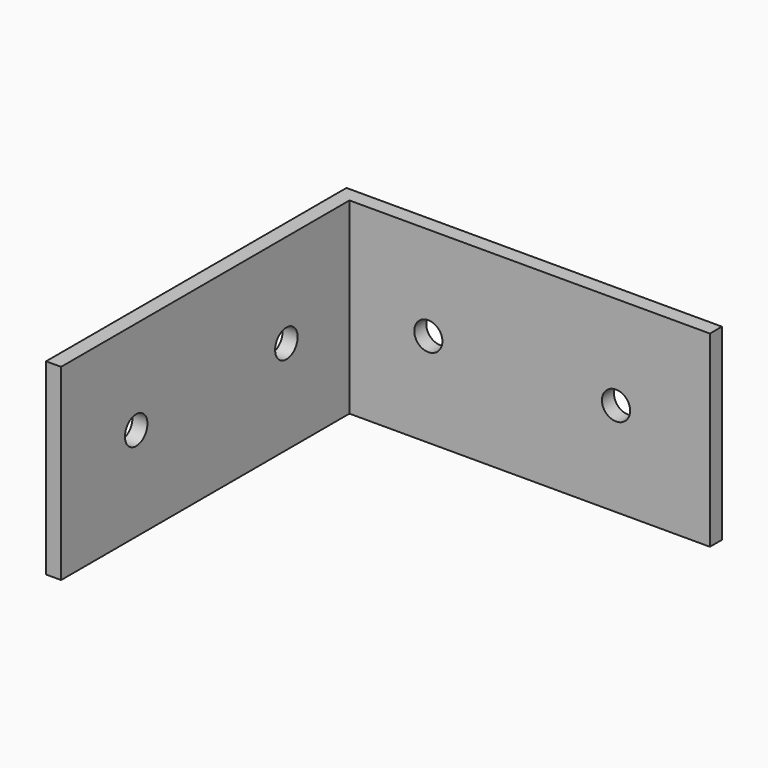
from build123d import *

# Parameters (mm, degrees)
F0_W     = 192
F0_H     = 8
F0_W_2   = 8
F0_H_2   = 192
F1_DEPTH = 100
F2_R     = 7.5
F3_DEPTH = 8
F4_R     = 7.5
F5_DEPTH = 8


with BuildPart() as f1:
    # F0 (on Top) → F1 (new body)
    with BuildSketch(Plane.XY):
        with Locations((0.652894, 118.005262)):
            Rectangle(F0_W, F0_H)
        with Locations((-99.347106, 118.005262)):
            Rectangle(F0_W_2, F0_H)
        with Locations((-99.347106, 18.005262)):
            Rectangle(F0_W_2, F0_H_2)
    extrude(amount=F1_DEPTH)

    # F2 (on face) → F3 (cut)
    with BuildSketch(Plane.XZ.offset(-114.005262)):
        with Locations((-53.347106, 50)):
            Circle(F2_R)
        with Locations((46.652894, 50)):
            Circle(F2_R)
    extrude(amount=-F3_DEPTH, mode=Mode.SUBTRACT)

    # F4 (on face) → F5 (cut)
    with BuildSketch(Plane.YZ.offset(-95.347106)):
        with Locations((-27.994738, 50)):
            Circle(F4_R)
        with Locations((72.005262, 50)):
            Circle(F4_R)
    extrude(amount=-F5_DEPTH, mode=Mode.SUBTRACT)


solid = f1.part
